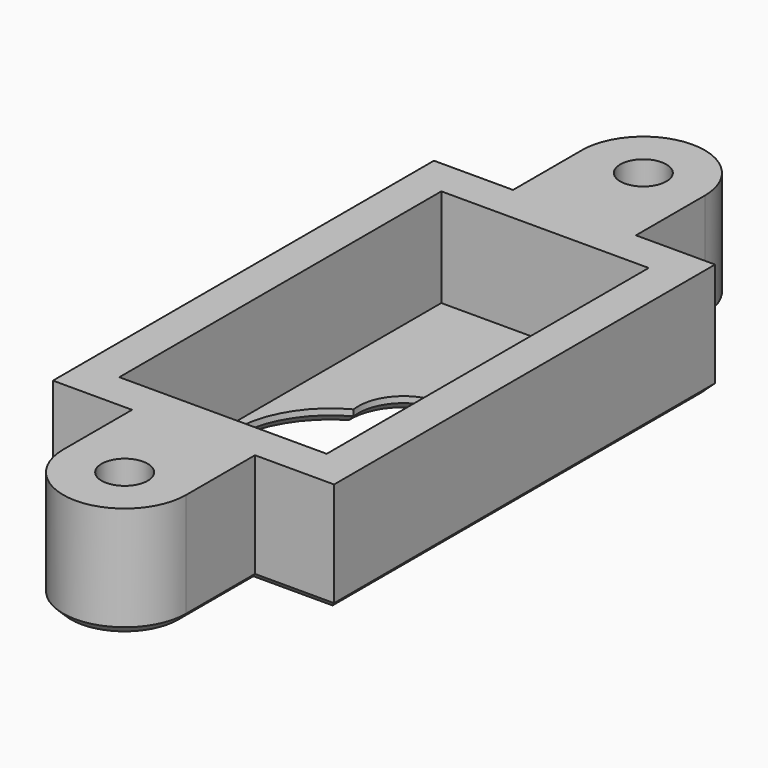
from build123d import *

# Parameters (mm, degrees)
F0_W      = 13.5
F0_H      = 26.2
F1_DEPTH  = 2
F2_W      = 18.3
F2_H      = 31
F2_W_2    = 13.5
F2_H_2    = 26.2
F3_DEPTH  = 8.4
F4_R      = 1.5
F5_DEPTH  = 8.4
F6_DEPTH  = 2.4
F7_DEPTH  = 2
F8_DEPTH  = 2
F9_DEPTH  = 1
F10_DEPTH = 0.5
F11_SIZE  = 0.5


with BuildPart() as f1:
    # F0 (on Top) → F1 (new body)
    with BuildSketch(Plane.XY):
        Rectangle(F0_W, F0_H)
        with BuildLine():
            ThreePointArc((2.919408303, 1.1762605042), (0, -10.6), (-2.919408303, 1.1762605042))
            ThreePointArc((-2.919408303, 1.1762605042), (0, 4.55), (2.919408303, 1.1762605042))
        make_face(mode=Mode.SUBTRACT)
    extrude(amount=F1_DEPTH)

    # F2 (on Top) → F3 (join)
    with BuildSketch(Plane.XY):
        Rectangle(F2_W, F2_H)
        Rectangle(F2_W_2, F2_H_2, mode=Mode.SUBTRACT)
    extrude(amount=F3_DEPTH)

    # F4 (on Top) → F5 (join, through all)
    with BuildSketch(Plane.XY):
        with BuildLine():
            Line((-4, 21.1), (-4, 15.5))
            Line((-4, 15.5), (4, 15.5))
            Line((4, 15.5), (4, 21.1))
            ThreePointArc((4, 21.1), (0, 25.1), (-4, 21.1))
        make_face()
        with Locations((0, 21.1)):
            Circle(F4_R, mode=Mode.SUBTRACT)
        with BuildLine():
            Line((4, -21.1), (4, -15.5))
            Line((4, -15.5), (-4, -15.5))
            Line((-4, -15.5), (-4, -21.1))
            ThreePointArc((-4, -21.1), (0, -25.1), (4, -21.1))
        make_face()
        with Locations((0, -21.1)):
            Circle(F4_R, mode=Mode.SUBTRACT)
    extrude(amount=F5_DEPTH)

    # F6 (add): a face of the model
    f6_faces = [f1.faces().sort_by_distance(p)[0] for p in [
        (0, -11.1343154499, 0),
    ]]
    extrude(f6_faces, amount=F6_DEPTH)

    # F7 (cut): a face of the model
    f7_faces = [f1.faces().sort_by_distance(p)[0] for p in [
        (0, -11.1343154499, -2.4),
    ]]
    extrude(f7_faces, amount=-F7_DEPTH, mode=Mode.SUBTRACT)

    # F8 (cut): a face of the model
    f8_faces = [f1.faces().sort_by_distance(p)[0] for p in [
        (0, -11.1343154499, -0.4),
    ]]
    extrude(f8_faces, amount=-F8_DEPTH, mode=Mode.SUBTRACT)

    # F9 (add): a face of the model
    f9_faces = [f1.faces().sort_by_distance(p)[0] for p in [
        (0, -11.1343154499, 1.6),
    ]]
    extrude(f9_faces, amount=F9_DEPTH)

    # F10 (cut): a face of the model
    f10_faces = [f1.faces().sort_by_distance(p)[0] for p in [
        (0, -11.1343154499, 0.6),
    ]]
    extrude(f10_faces, amount=-F10_DEPTH, mode=Mode.SUBTRACT)

    # F11
    f11_edges = [f1.edges().sort_by_distance(p)[0] for p in [
        (0, -10.6, 1.1),
        (0, 4.55, 1.1),
        (9.15, 0, 1.1),
        (6.575, 15.5, 1.1),
        (4, 18.3, 1.1),
        (0, 25.1, 1.1),
        (-4, 18.3, 1.1),
        (-6.575, 15.5, 1.1),
        (-9.15, 0, 1.1),
        (-6.575, -15.5, 1.1),
        (-4, -18.3, 1.1),
        (0, -25.1, 1.1),
        (4, -18.3, 1.1),
        (6.575, -15.5, 1.1),
        (-1.5, 21.1, 1.1),
        (-1.5, -21.1, 1.1),
    ]]
    chamfer(f11_edges, length=F11_SIZE)


solid = f1.part
